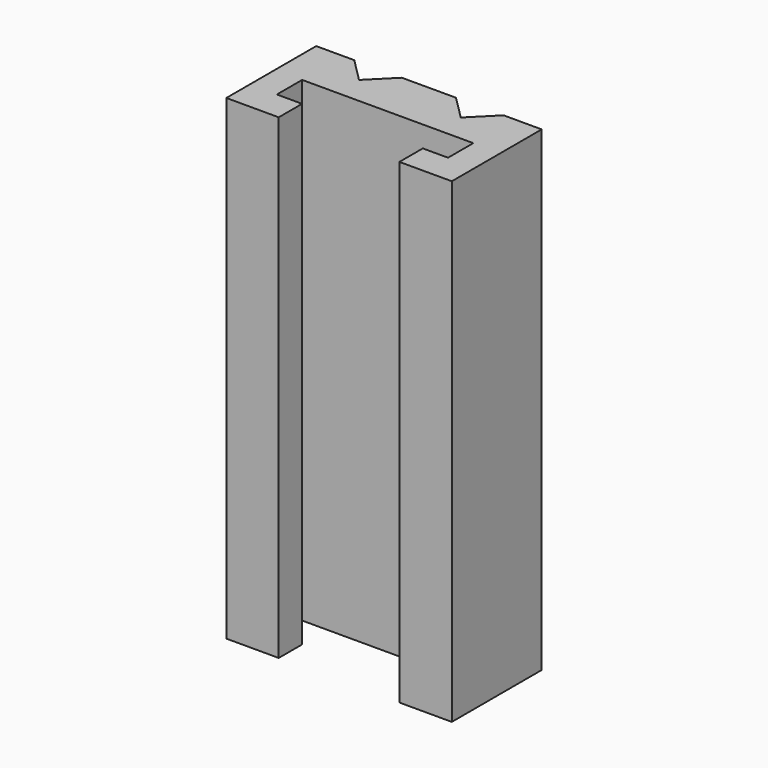
from build123d import *

# Parameters (mm, degrees)
F0_W     = 2.65
F0_H     = 3.07
F1_DEPTH = 50


with BuildPart() as f1:
    # F0 (on Top) → F1 (new body)
    with BuildSketch(Plane.XY):
        Polygon((-8.99, 0.489908), (-11.843405, 0.489908), (-11.843405, -5.900092), (-8.99, -5.900092), (-8.99, -2.830092), align=None)
        Polygon((-7.843405, 5.900092), (-11.843405, 5.900092), (-11.843405, 0.489908), (-8.99, 0.489908), (8.99, 0.489908), (11.843405, 0.489908), (11.843405, 5.900092), (7.843405, 5.900092), (5.343405, 3.400092), (2.843405, 5.900092), (-2.843405, 5.900092), (-5.343405, 3.400092), align=None)
        Polygon((11.843405, 0.489908), (8.99, 0.489908), (8.99, -2.830092), (8.99, -5.900092), (11.843405, -5.900092), align=None)
        with Locations((7.665, -4.365092)):
            Rectangle(F0_W, F0_H)
        with Locations((-7.665, -4.365092)):
            Rectangle(F0_W, F0_H)
    extrude(amount=F1_DEPTH)


solid = f1.part
